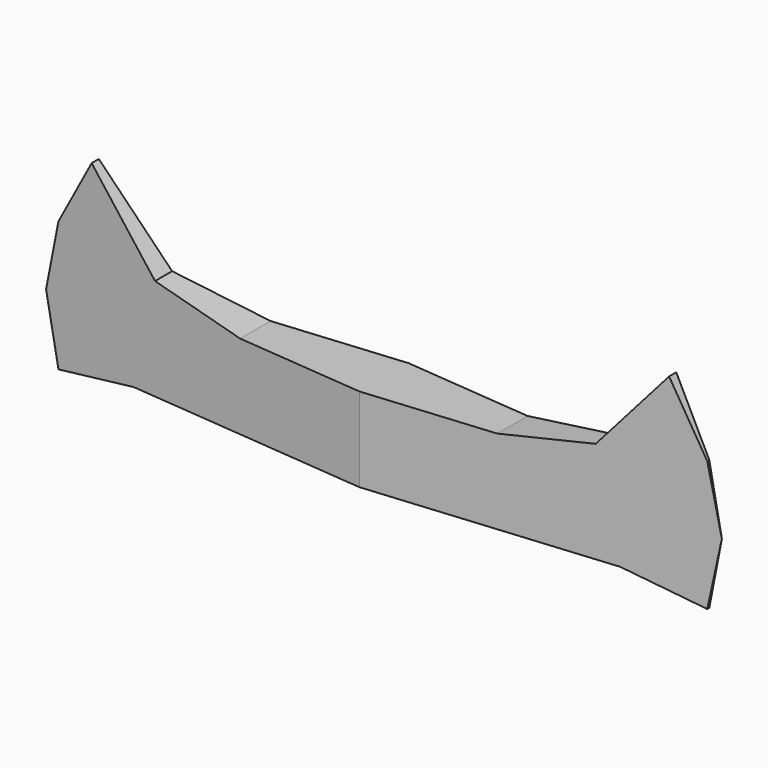
from build123d import *

# Parameters (mm, degrees)
F1_DEPTH = 6.35
F2_DEPTH = 6.35
F3_W     = 41.3920721039
F3_H     = 19.1692784429
F4_DEPTH = 25.4
F5_DEPTH = 76.2
F6_W     = 87.5323042274
F6_H     = 20.6641275436
F7_DEPTH = 1270
F8_DEPTH = 127


with BuildPart() as f1:
    # F0 (on Front) → F1 (new body)
    with BuildSketch(Plane.XZ):
        Polygon((13.9693478122, -26.9105285406), (0, -26.9105285406), (-13.9777120203, -26.9105285406), (-23.9575356245, -25.0166002661), (-31.3873849809, -16.4197664708), (-35.2805815637, -23.4119985253), (-36.7282442749, -30.4229743779), (-35.2805815637, -37.568423897), (-26.4761578292, -36.0731184483), (26.4421477914, -36.0731184483), (35.2569408715, -37.568423897), (36.7377512157, -30.4229743779), (35.2569408715, -23.4119985253), (31.3880257308, -16.4197664708), (23.9525288343, -25.0166002661), align=None)
    extrude(amount=F1_DEPTH)

    # F2 (add): a face of the model
    f2_faces = [f1.faces().sort_by_distance(p)[0] for p in [
        (-0.0050105125, 0, -30.0017701646),
    ]]
    extrude(f2_faces, amount=F2_DEPTH)

    # F6 (on face) → F7 (cut)
    with BuildSketch(Plane(origin=(0, 0, -76.2), x_dir=(1, 0, 0), z_dir=(0, 0, -1))):
        with Locations((-0.8414760232, -1.1486634612)):
            Rectangle(F6_W, F6_H)
        Polygon((0, 3.335296642), (36.7744714022, 0), (0, -3.3350162109), (-36.7713794112, 0), align=None, mode=Mode.SUBTRACT)
    extrude(amount=-F7_DEPTH, mode=Mode.SUBTRACT)


with BuildPart() as f4:
    # F3 (on Top) → F4 (new body)
    with BuildSketch(Plane.XY):
        with Locations((5.1154219545, -48.7104393542)):
            Rectangle(F3_W, F3_H)
    extrude(amount=F4_DEPTH)

    # F5 (add): a face of the model
    f5_faces = [f4.faces().sort_by_distance(p)[0] for p in [
        (5.1154219545, -48.7104393542, 0),
    ]]
    extrude(f5_faces, amount=F5_DEPTH)

    # F8 (cut): a face of the model
    f8_faces = [f4.faces().sort_by_distance(p)[0] for p in [
        (5.1154219545, -48.7104393542, -76.2),
    ]]
    extrude(f8_faces, amount=-F8_DEPTH, mode=Mode.SUBTRACT)


solid = f1.part
